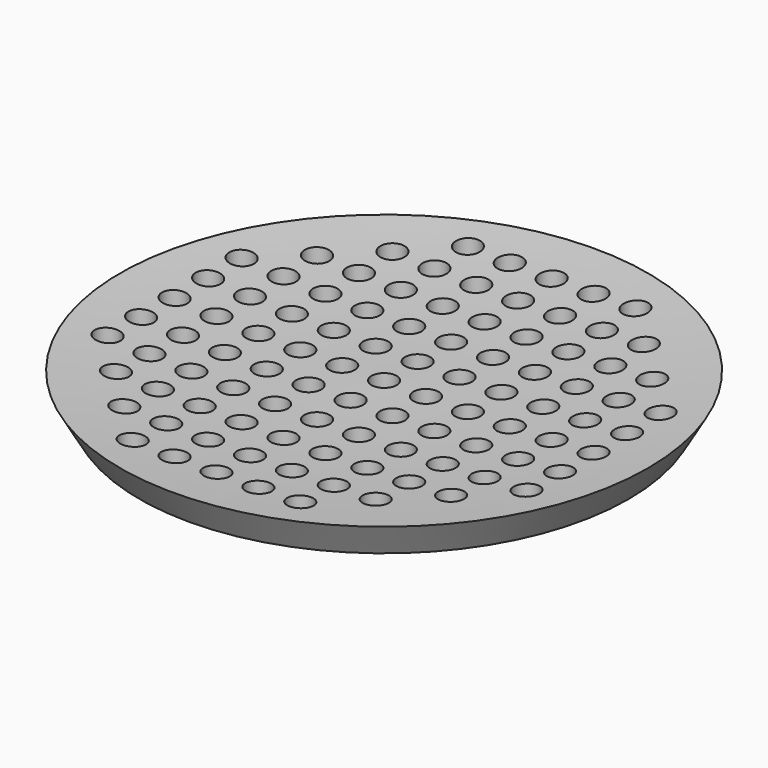
from build123d import *

# Parameters (mm, degrees)
F2_R     = 1.905
F3_DEPTH = 5.081


with BuildPart() as f1:
    # F0 (on Front) → F1 (revolve)
    with BuildSketch(Plane.XZ):
        with BuildLine():
            Line((0, 3.81), (0, 0))
            Line((0, 0), (37.072061, 0))
            Line((37.072061, 0), (40.005, 5.08))
            ThreePointArc((40.005, 5.08), (20.020429, 3.880237), (0, 3.81))
        make_face()
    revolve(axis=Axis((0, 0, 1.905), (0, 0, 1)))

    # F2 (on face) → F3 (cut, through all)
    with BuildSketch(Plane(origin=(0, 0, 0), x_dir=(1, 0, 0), z_dir=(0, 0, -1))):
        Circle(F2_R)
        with Locations((0, 6.35)):
            Circle(F2_R)
        with Locations((0, 12.7)):
            Circle(F2_R)
        with Locations((0, 19.05)):
            Circle(F2_R)
        with Locations((0, 25.4)):
            Circle(F2_R)
        with Locations((0, 31.75)):
            Circle(F2_R)
        with Locations((6.35, 0)):
            Circle(F2_R)
        with Locations((6.35, 6.35)):
            Circle(F2_R)
        with Locations((6.35, 12.7)):
            Circle(F2_R)
        with Locations((6.35, 19.05)):
            Circle(F2_R)
        with Locations((6.35, 25.4)):
            Circle(F2_R)
        with Locations((6.35, 31.75)):
            Circle(F2_R)
        with Locations((12.7, 0)):
            Circle(F2_R)
        with Locations((12.7, 6.35)):
            Circle(F2_R)
        with Locations((12.7, 12.7)):
            Circle(F2_R)
        with Locations((12.7, 19.05)):
            Circle(F2_R)
        with Locations((12.7, 25.4)):
            Circle(F2_R)
        with Locations((12.7, 31.75)):
            Circle(F2_R)
        with Locations((19.05, 0)):
            Circle(F2_R)
        with Locations((19.05, 6.35)):
            Circle(F2_R)
        with Locations((19.05, 12.7)):
            Circle(F2_R)
        with Locations((19.05, 19.05)):
            Circle(F2_R)
        with Locations((19.05, 25.4)):
            Circle(F2_R)
        with Locations((25.4, 0)):
            Circle(F2_R)
        with Locations((25.4, 6.35)):
            Circle(F2_R)
        with Locations((25.4, 12.7)):
            Circle(F2_R)
        with Locations((25.4, 19.05)):
            Circle(F2_R)
        with Locations((31.75, 0)):
            Circle(F2_R)
        with Locations((31.75, 6.35)):
            Circle(F2_R)
        with Locations((31.75, 12.7)):
            Circle(F2_R)
        with Locations((-12.7, 19.05)):
            Circle(F2_R)
        with Locations((-12.7, 31.75)):
            Circle(F2_R)
        with Locations((-19.05, 12.7)):
            Circle(F2_R)
        with Locations((-6.35, 12.7)):
            Circle(F2_R)
        with Locations((-12.7, 25.4)):
            Circle(F2_R)
        with Locations((-12.7, 0)):
            Circle(F2_R)
        with Locations((-6.35, 0)):
            Circle(F2_R)
        with Locations((-19.05, 19.05)):
            Circle(F2_R)
        with Locations((-6.35, 19.05)):
            Circle(F2_R)
        with Locations((-25.4, 6.35)):
            Circle(F2_R)
        with Locations((-25.4, 12.7)):
            Circle(F2_R)
        with Locations((-25.4, 19.05)):
            Circle(F2_R)
        with Locations((-31.75, 0)):
            Circle(F2_R)
        with Locations((-31.75, 6.35)):
            Circle(F2_R)
        with Locations((-31.75, 12.7)):
            Circle(F2_R)
        with Locations((-12.7, 6.35)):
            Circle(F2_R)
        with Locations((-25.4, 0)):
            Circle(F2_R)
        with Locations((-6.35, 6.35)):
            Circle(F2_R)
        with Locations((-19.05, 25.4)):
            Circle(F2_R)
        with Locations((-6.35, 25.4)):
            Circle(F2_R)
        with Locations((-19.05, 0)):
            Circle(F2_R)
        with Locations((-12.7, 12.7)):
            Circle(F2_R)
        with Locations((-6.35, 31.75)):
            Circle(F2_R)
        with Locations((-19.05, 6.35)):
            Circle(F2_R)
        with Locations((-31.75, -6.35)):
            Circle(F2_R)
        with Locations((-19.05, -12.7)):
            Circle(F2_R)
        with Locations((-6.35, -25.4)):
            Circle(F2_R)
        with Locations((-25.4, -19.05)):
            Circle(F2_R)
        with Locations((25.4, -19.05)):
            Circle(F2_R)
        with Locations((-6.35, -19.05)):
            Circle(F2_R)
        with Locations((19.05, -12.7)):
            Circle(F2_R)
        with Locations((31.75, -12.7)):
            Circle(F2_R)
        with Locations((-6.35, -12.7)):
            Circle(F2_R)
        with Locations((-6.35, -6.35)):
            Circle(F2_R)
        with Locations((-19.05, -6.35)):
            Circle(F2_R)
        with Locations((-12.7, -6.35)):
            Circle(F2_R)
        with Locations((-12.7, -25.4)):
            Circle(F2_R)
        with Locations((6.35, -6.35)):
            Circle(F2_R)
        with Locations((6.35, -12.7)):
            Circle(F2_R)
        with Locations((6.35, -19.05)):
            Circle(F2_R)
        with Locations((6.35, -25.4)):
            Circle(F2_R)
        with Locations((6.35, -31.75)):
            Circle(F2_R)
        with Locations((19.05, -6.35)):
            Circle(F2_R)
        with Locations((0, -6.35)):
            Circle(F2_R)
        with Locations((0, -12.7)):
            Circle(F2_R)
        with Locations((0, -19.05)):
            Circle(F2_R)
        with Locations((0, -25.4)):
            Circle(F2_R)
        with Locations((0, -31.75)):
            Circle(F2_R)
        with Locations((12.7, -19.05)):
            Circle(F2_R)
        with Locations((-6.35, -31.75)):
            Circle(F2_R)
        with Locations((-19.05, -25.4)):
            Circle(F2_R)
        with Locations((31.75, -6.35)):
            Circle(F2_R)
        with Locations((25.4, -12.7)):
            Circle(F2_R)
        with Locations((-12.7, -31.75)):
            Circle(F2_R)
        with Locations((-25.4, -12.7)):
            Circle(F2_R)
        with Locations((19.05, -19.05)):
            Circle(F2_R)
        with Locations((12.7, -12.7)):
            Circle(F2_R)
        with Locations((12.7, -25.4)):
            Circle(F2_R)
        with Locations((-25.4, -6.35)):
            Circle(F2_R)
        with Locations((12.7, -31.75)):
            Circle(F2_R)
        with Locations((-19.05, -19.05)):
            Circle(F2_R)
        with Locations((-31.75, -12.7)):
            Circle(F2_R)
        with Locations((-12.7, -12.7)):
            Circle(F2_R)
        with Locations((-12.7, -19.05)):
            Circle(F2_R)
        with Locations((19.05, -25.4)):
            Circle(F2_R)
        with Locations((25.4, -6.35)):
            Circle(F2_R)
        with Locations((12.7, -6.35)):
            Circle(F2_R)
    extrude(amount=-F3_DEPTH, mode=Mode.SUBTRACT)


solid = f1.part
